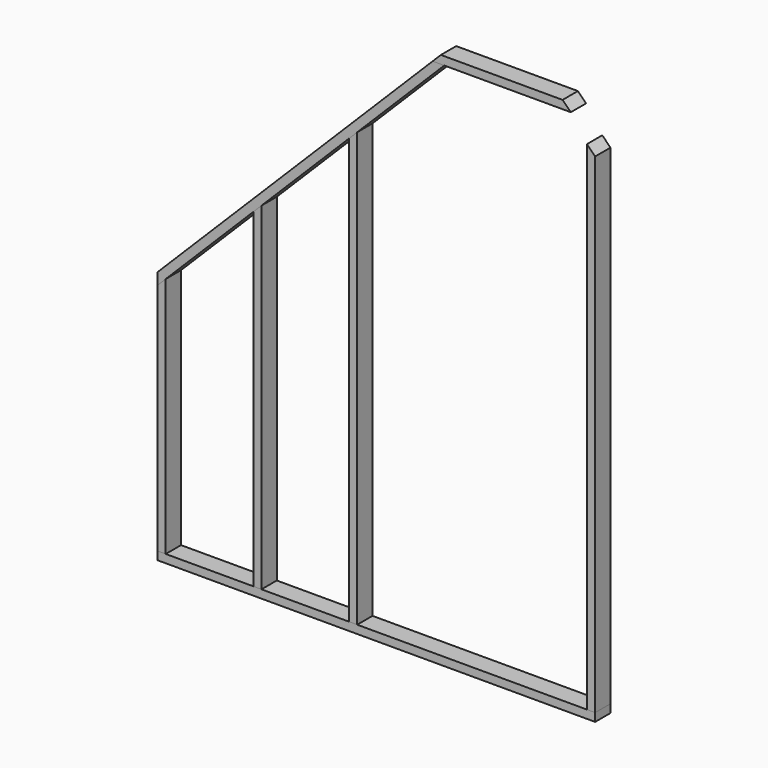
from build123d import *

# Parameters (mm, degrees)
F1_DEPTH  = 44.45
F3_DEPTH  = 44.45
F5_DEPTH  = 44.45
F7_DEPTH  = 44.45
F10_W     = 38.1
F10_H     = 2273.3
F11_DEPTH = 44.45
F13_DEPTH = 44.45
F15_DEPTH = 44.45


with BuildPart() as f1:
    # F0 (on Front) → F1 (new body, symmetric)
    with BuildSketch(Plane.XZ):
        Polygon((-282.575, 38.1), (-320.675, 0), (320.675, 0), (282.575, 38.1), align=None)
    extrude(amount=F1_DEPTH, both=True)


with BuildPart() as f3:
    # F2 (on Front) → F3 (new body, symmetric)
    with BuildSketch(Plane.XZ):
        Polygon((-282.575, 38.1), (-320.675, 0), (-266.7934632736, 0), (-228.6934632736, 38.1), align=None)
        Polygon((-266.7934632736, 0), (-320.675, 0), (-1598.1825217366, -1277.5075217366), (-1598.1825217366, -1331.389058463), align=None)
    extrude(amount=F3_DEPTH, both=True)

    # F8: cut F1
    add(f1.part, mode=Mode.SUBTRACT)


with BuildPart() as f5:
    # F4 (on Front) → F5 (new body, symmetric)
    with BuildSketch(Plane.XZ):
        Polygon((-1560.0825217366, -1239.4075217366), (-1598.1825217366, -1277.5075217366), (-1598.1825217366, -1331.389058463), (-1560.0825217366, -1293.289058463), align=None)
        Polygon((-1560.0825217366, -1293.289058463), (-1598.1825217366, -1331.389058463), (-1598.1825217366, -2417.239058463), (-1560.0825217366, -2417.239058463), align=None)
    extrude(amount=F5_DEPTH, both=True)

    # F9: cut F3
    add(f3.part, mode=Mode.SUBTRACT)


with BuildPart() as f7:
    # F6 (on Front) → F7 (new body, symmetric)
    with BuildSketch(Plane.XZ):
        Polygon((-1560.0825217366, -2417.239058463), (-1598.1825217366, -2417.239058463), (-1598.1825217366, -2455.339058463), (433.8174782634, -2455.339058463), (433.8174782634, -2417.239058463), align=None)
    extrude(amount=F7_DEPTH, both=True)


with BuildPart() as f11:
    # F10 (on Front) → F11 (new body, symmetric)
    with BuildSketch(Plane.XZ):
        with Locations((414.7674782634, -1280.589058463)):
            Rectangle(F10_W, F10_H)
        Polygon((395.7174782634, -143.939058463), (433.8174782634, -143.939058463), (395.7174782634, -105.839058463), align=None)
    extrude(amount=F11_DEPTH, both=True)


with BuildPart() as f13:
    # F12 (on Front) → F13 (new body, symmetric)
    with BuildSketch(Plane.XZ):
        Polygon((-1153.6825217366, -2417.239058463), (-1115.5825217366, -2417.239058463), (-1115.5825217366, -848.789058463), (-1153.6825217366, -886.889058463), align=None)
    extrude(amount=F13_DEPTH, both=True)


with BuildPart() as f15:
    # F14 (on Front) → F15 (new body, symmetric)
    with BuildSketch(Plane.XZ):
        Polygon((-709.1825217366, -2417.239058463), (-671.0825217366, -2417.239058463), (-671.0825217366, -404.289058463), (-709.1825217366, -442.389058463), align=None)
    extrude(amount=F15_DEPTH, both=True)


solid = Compound([f1.part, f3.part, f5.part, f7.part, f11.part, f13.part, f15.part])
